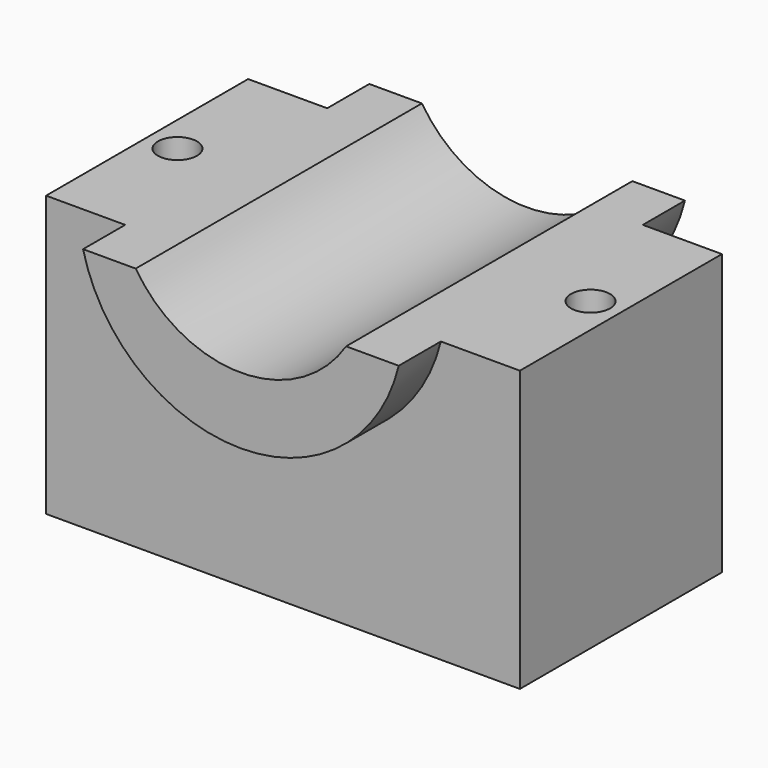
from build123d import *

# Parameters (mm, degrees)
F0_W     = 114.378564
F0_H     = 67.637316
F1_DEPTH = 60.96
F3_DEPTH = 12.7
F5_DEPTH = 12.7
F7_DEPTH = 86.361
F8_R     = 4.717852
F9_DEPTH = 67.638317


with BuildPart() as f1:
    # F0 (on Front) → F1 (new body)
    with BuildSketch(Plane.XZ):
        Rectangle(F0_W, F0_H)
    extrude(amount=-F1_DEPTH)

    # F2 (on face) → F3 (join)
    with BuildSketch(Plane(origin=(0, 60.96, 0), x_dir=(-1, 0, 0), z_dir=(0, 1, 0))):
        with BuildLine():
            Line((0, 33.818658), (-38.1, 33.818658))
            ThreePointArc((-38.1, 33.818658), (0, 3.86379), (38.1, 33.818658))
            Line((38.1, 33.818658), (0, 33.818658))
        make_face()
    extrude(amount=F3_DEPTH)

    # F4 (on face) → F5 (join)
    with BuildSketch(Plane.XZ):
        with BuildLine():
            ThreePointArc((-38.1, 33.818658), (0, 3.86379), (38.1, 33.818658))
            Line((38.1, 33.818658), (-38.1, 33.818658))
        make_face()
    extrude(amount=F5_DEPTH)

    # F6 (on face) → F7 (cut, through all)
    with BuildSketch(Plane.XZ.offset(12.7)):
        with BuildLine():
            Line((0, 33.818658), (-25.4, 33.818658))
            ThreePointArc((-25.4, 33.818658), (0, 19.955179), (25.4, 33.818658))
            Line((25.4, 33.818658), (0, 33.818658))
        make_face()
    extrude(amount=-F7_DEPTH, mode=Mode.SUBTRACT)

    # F8 (on face) → F9 (cut, through all)
    with BuildSketch(Plane.XY.offset(33.818658)):
        with Locations((-49.857318, 30.48)):
            Circle(F8_R)
        with Locations((49.857318, 30.48)):
            Circle(F8_R)
    extrude(amount=-F9_DEPTH, mode=Mode.SUBTRACT)


solid = f1.part
